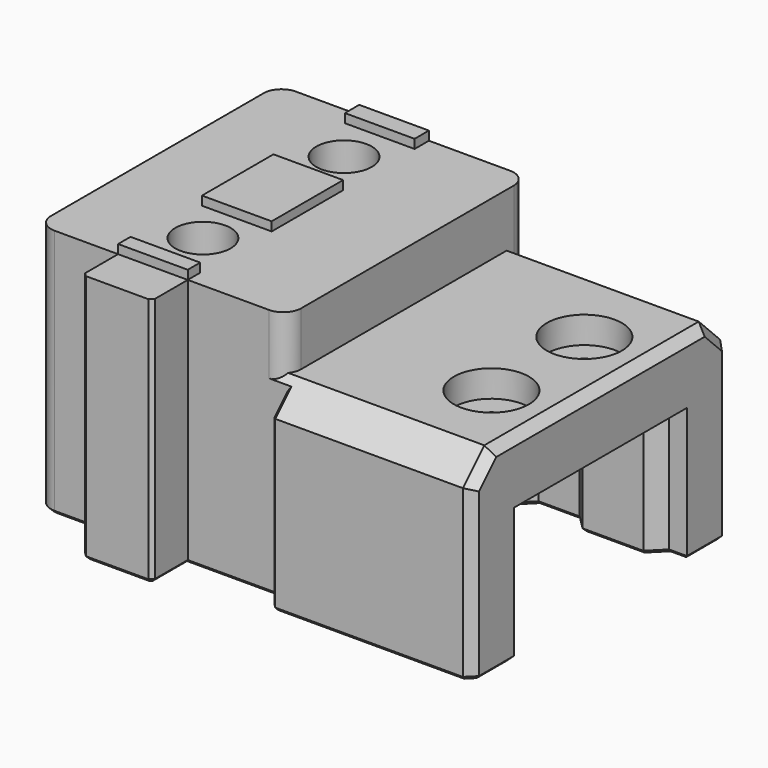
from build123d import *

# Parameters (mm, degrees)
BOX039_W                 = 10
BOX039_H                 = 10
BOX039_DEPTH             = 10
BOX040_W                 = 10
BOX040_H                 = 10
BOX040_DEPTH             = 10
CYLINDER027_R            = 1.4
CYLINDER027_DEPTH        = 46
CYLINDER028_R            = 3
CYLINDER028_DEPTH        = 4
CYLINDER026_R            = 3.1
CYLINDER026_DEPTH        = 32
CYLINDER_R               = 3.1
CYLINDER_DEPTH           = 32
BOX035_W                 = 7.8
BOX035_H                 = 6
BOX035_DEPTH             = 28
CHAMFER003068008_SIZE    = 0.4
BOX031_W                 = 7.8
BOX031_H                 = 11.74
BOX031_DEPTH             = 1
BOX032_W                 = 7.8
BOX032_H                 = 3
BOX032_DEPTH             = 1
BOX030_W                 = 7.8
BOX030_H                 = 3
BOX030_DEPTH             = 1
BOX033_W                 = 60
BOX033_H                 = 10
BOX033_DEPTH             = 30
BOX_W                    = 28
BOX_H                    = 36
BOX_DEPTH                = 28
FILLET_R                 = 2
BOX038_W                 = 4
BOX038_H                 = 14.5
BOX038_DEPTH             = 15
CHAMFER003068009_SIZE    = 3.1
BOX034_W                 = 10
BOX034_H                 = 10
BOX034_DEPTH             = 28
CYLINDER024_R            = 1.65
CYLINDER024_DEPTH        = 10
CYLINDER025_R            = 1.65
CYLINDER025_DEPTH        = 10
CYLINDER023_R            = 4.2
CYLINDER023_DEPTH        = 3
CYLINDER022_R            = 4.2
CYLINDER022_DEPTH        = 3
BOX027_W                 = 13
BOX027_H                 = 10
BOX027_DEPTH             = 19
BOX021_W                 = 10
BOX021_H                 = 3
BOX021_DEPTH             = 15
BOX022_W                 = 4
BOX022_H                 = 3
BOX022_DEPTH             = 15
BOX026_W                 = 4
BOX026_H                 = 3
BOX026_DEPTH             = 15
CHAMFER003060_SIZE       = 1.6
BOX015_W                 = 22.2
BOX015_H                 = 24.2
BOX015_DEPTH             = 18
CHAMFER003042_SIZE       = 1
BOX018_W                 = 22.5
BOX018_H                 = 36
BOX018_DEPTH             = 22
CHAMFER_SIZE             = 3
CHAMFER003061_SIZE       = 1
BOX029_W                 = 3
BOX029_H                 = 36
BOX029_DEPTH             = 22
CHAMFER003062_SIZE       = 3
CHAMFER003068012002_SIZE = 0.4


with BuildPart() as cube037:
    # Box039 → Box039 (new body)
    with BuildSketch(Plane(origin=(-20, 6, 28), x_dir=(1, 0, 0), z_dir=(0, 0, 1))):
        with Locations((5, 5)):
            Rectangle(BOX039_W, BOX039_H)
    extrude(amount=BOX039_DEPTH)


with BuildPart() as fusion013005011029006008001011:
    # Box040 → Box040 (new body)
    with BuildSketch(Plane(origin=(-20, -14, 28), x_dir=(1, 0, 0), z_dir=(0, 0, 1))):
        with Locations((5, 5)):
            Rectangle(BOX040_W, BOX040_H)
    extrude(amount=BOX040_DEPTH)

    # Fusion013005011029006008001011: union Cube037
    add(cube037.part)


with BuildPart() as cylinder027:
    # Cylinder027 → Cylinder027 (new body)
    with BuildSketch(Plane(origin=(-25, 0, 18.5), x_dir=(0, 0, -1), z_dir=(1, 0, 0))):
        Circle(CYLINDER027_R)
    extrude(amount=CYLINDER027_DEPTH)


with BuildPart() as fusion013005011029006008001010:
    # Cylinder028 → Cylinder028 (new body)
    with BuildSketch(Plane(origin=(-29, 0, 18.5), x_dir=(0, 0, -1), z_dir=(1, 0, 0))):
        Circle(CYLINDER028_R)
    extrude(amount=CYLINDER028_DEPTH)

    # Fusion013005011029006008001010: union Cylinder027
    add(cylinder027.part)


with BuildPart() as cylinder026:
    # Cylinder026 → Cylinder026 (new body)
    with BuildSketch(Plane(origin=(-15, -8.74, 0), x_dir=(1, 0, 0), z_dir=(0, 0, 1))):
        Circle(CYLINDER026_R)
    extrude(amount=CYLINDER026_DEPTH)


with BuildPart() as fusion013005011029006006:
    # Cylinder → Cylinder (new body)
    with BuildSketch(Plane(origin=(-15, 11, 0), x_dir=(1, 0, 0), z_dir=(0, 0, 1))):
        Circle(CYLINDER_R)
    extrude(amount=CYLINDER_DEPTH)

    # Fusion013005011029006006: union Cylinder026
    add(cylinder026.part)


with BuildPart() as chamfer003068008:
    # Box035 → Box035 (new body)
    with BuildSketch(Plane(origin=(-18.9, -20.74, 0), x_dir=(1, 0, 0), z_dir=(0, 0, 1))):
        with Locations((3.9, 3)):
            Rectangle(BOX035_W, BOX035_H)
    extrude(amount=BOX035_DEPTH)

    # Chamfer003068008
    chamfer003068008_edges = [chamfer003068008.edges().sort_by_distance(p)[0] for p in [
        (-18.9, -20.74, 14),
        (-11.1, -20.74, 14),
    ]]
    chamfer(chamfer003068008_edges, length=CHAMFER003068008_SIZE)


with BuildPart() as cube029:
    # Box031 → Box031 (new body)
    with BuildSketch(Plane(origin=(-18.9, -4.74, 25), x_dir=(1, 0, 0), z_dir=(0, 0, 1))):
        with Locations((3.9, 5.87)):
            Rectangle(BOX031_W, BOX031_H)
    extrude(amount=BOX031_DEPTH)


with BuildPart() as cube030:
    # Box032 → Box032 (new body)
    with BuildSketch(Plane(origin=(-18.9, 15, 25), x_dir=(1, 0, 0), z_dir=(0, 0, 1))):
        with Locations((3.9, 1.5)):
            Rectangle(BOX032_W, BOX032_H)
    extrude(amount=BOX032_DEPTH)


with BuildPart() as fusion013005011029006004:
    # Box030 → Box030 (new body)
    with BuildSketch(Plane(origin=(-18.9, -15.74, 25), x_dir=(1, 0, 0), z_dir=(0, 0, 1))):
        with Locations((3.9, 1.5)):
            Rectangle(BOX030_W, BOX030_H)
    extrude(amount=BOX030_DEPTH)

    # Fusion013005011029006004: union Cube029, Cube030
    add(cube029.part)
    add(cube030.part)


with BuildPart() as fusion013005011029006004_1:
    # Fusion013005011029006004 placement: moved
    add(fusion013005011029006004.part.moved(Location((0, 0, 3))))


with BuildPart() as cube031:
    # Box033 → Box033 (new body)
    with BuildSketch(Plane(origin=(-31.48, -25.74, 0), x_dir=(1, 0, 0), z_dir=(0, 0, 1))):
        with Locations((30, 5)):
            Rectangle(BOX033_W, BOX033_H)
    extrude(amount=BOX033_DEPTH)


with BuildPart() as fusion013005011029006008001007:
    # Box → Box (new body)
    with BuildSketch(Plane(origin=(-28, -18, 0), x_dir=(1, 0, 0), z_dir=(0, 0, 1))):
        with Locations((14, 18)):
            Rectangle(BOX_W, BOX_H)
    extrude(amount=BOX_DEPTH)

    # Cut001001036007: cut Cube031
    add(cube031.part, mode=Mode.SUBTRACT)

    # Fillet
    fillet_edges = [fusion013005011029006008001007.edges().sort_by_distance(p)[0] for p in [
        (-28, 18, 14),
        (-28, -15.74, 14),
        (0, 18, 14),
        (0, -15.74, 14),
    ]]
    fillet(fillet_edges, radius=FILLET_R)

    # Fusion013005011029006008001007: union Chamfer003068008, Fusion013005011029006004
    add(chamfer003068008.part)
    add(fusion013005011029006004_1.part)


with BuildPart() as chamfer003068009:
    # Box038 → Box038 (new body)
    with BuildSketch(Plane(origin=(1.8, -7.25, 0), x_dir=(1, 0, 0), z_dir=(0, 0, 1))):
        with Locations((2, 7.25)):
            Rectangle(BOX038_W, BOX038_H)
    extrude(amount=BOX038_DEPTH)

    # Chamfer003068009
    chamfer003068009_edges = [chamfer003068009.edges().sort_by_distance(p)[0] for p in [
        (1.8, -7.25, 7.5),
        (1.8, 7.25, 7.5),
    ]]
    chamfer(chamfer003068009_edges, length=CHAMFER003068009_SIZE)


with BuildPart() as cube032:
    # Box034 → Box034 (new body)
    with BuildSketch(Plane(origin=(-9.9, -25.74, 0), x_dir=(1, 0, 0), z_dir=(0, 0, 1))):
        with Locations((5, 5)):
            Rectangle(BOX034_W, BOX034_H)
    extrude(amount=BOX034_DEPTH)


with BuildPart() as cylinder024:
    # Cylinder024 → Cylinder024 (new body)
    with BuildSketch(Plane(origin=(15, 6.5, 12), x_dir=(1, 0, 0), z_dir=(0, 0, 1))):
        Circle(CYLINDER024_R)
    extrude(amount=CYLINDER024_DEPTH)


with BuildPart() as fusion013005011016:
    # Cylinder025 → Cylinder025 (new body)
    with BuildSketch(Plane(origin=(15, -6.5, 12), x_dir=(1, 0, 0), z_dir=(0, 0, 1))):
        Circle(CYLINDER025_R)
    extrude(amount=CYLINDER025_DEPTH)

    # Fusion013005011016: union Cylinder024
    add(cylinder024.part)


with BuildPart() as fusion013005011016_1:
    # Fusion013005011016 placement: moved
    add(fusion013005011016.part.moved(Location((0.5, 0, 0))))


with BuildPart() as cylinder023:
    # Cylinder023 → Cylinder023 (new body)
    with BuildSketch(Plane(origin=(15.5, -6.5, 19), x_dir=(1, 0, 0), z_dir=(0, 0, 1))):
        Circle(CYLINDER023_R)
    extrude(amount=CYLINDER023_DEPTH)


with BuildPart() as fusion013005011027:
    # Cylinder022 → Cylinder022 (new body)
    with BuildSketch(Plane(origin=(15.5, 6.5, 19), x_dir=(1, 0, 0), z_dir=(0, 0, 1))):
        Circle(CYLINDER022_R)
    extrude(amount=CYLINDER022_DEPTH)

    # Fusion013005011026: union Cylinder023
    add(cylinder023.part)

    # Fusion013005011027: union Fusion013005011016
    add(fusion013005011016_1.part)


with BuildPart() as cube025:
    # Box027 → Box027 (new body)
    with BuildSketch(Plane(origin=(6, -11, 0), x_dir=(1, 0, 0), z_dir=(0, 0, 1))):
        with Locations((6.5, 5)):
            Rectangle(BOX027_W, BOX027_H)
    extrude(amount=BOX027_DEPTH)


with BuildPart() as cube021:
    # Box021 → Box021 (new body)
    with BuildSketch(Plane(origin=(10, 10.5, 0), x_dir=(1, 0, 0), z_dir=(0, 0, 1))):
        with Locations((5, 1.5)):
            Rectangle(BOX021_W, BOX021_H)
    extrude(amount=BOX021_DEPTH)


with BuildPart() as cube022:
    # Box022 → Box022 (new body)
    with BuildSketch(Plane(origin=(7, -13.5, 0), x_dir=(1, 0, 0), z_dir=(0, 0, 1))):
        with Locations((2, 1.5)):
            Rectangle(BOX022_W, BOX022_H)
    extrude(amount=BOX022_DEPTH)


with BuildPart() as cut001001032:
    # Box026 → Box026 (new body)
    with BuildSketch(Plane(origin=(16, -13.5, 0), x_dir=(1, 0, 0), z_dir=(0, 0, 1))):
        with Locations((2, 1.5)):
            Rectangle(BOX026_W, BOX026_H)
    extrude(amount=BOX026_DEPTH)

    # Fusion013005011025: union Cube021, Cube022
    add(cube021.part)
    add(cube022.part)

    # Chamfer003060
    chamfer003060_edges = [cut001001032.edges().sort_by_distance(p)[0] for p in [
        (16, -10.5, 7.5),
        (20, -10.5, 7.5),
        (10, 10.5, 7.5),
        (20, 10.5, 7.5),
        (7, -10.5, 7.5),
        (11, -10.5, 7.5),
    ]]
    chamfer(chamfer003060_edges, length=CHAMFER003060_SIZE)

    # Cut001001032: cut Cube025
    add(cube025.part, mode=Mode.SUBTRACT)


with BuildPart() as cut001001032_1:
    # Cut001001032 placement: moved
    add(cut001001032.part.moved(Location((0.5, 0, 0))))


with BuildPart() as chamfer003042:
    # Box015 → Box015 (new body)
    with BuildSketch(Plane(origin=(4.4, -12.1, 0), x_dir=(1, 0, 0), z_dir=(0, 0, 1))):
        with Locations((11.1, 12.1)):
            Rectangle(BOX015_W, BOX015_H)
    extrude(amount=BOX015_DEPTH)

    # Chamfer003042
    chamfer003042_edges = [chamfer003042.edges().sort_by_distance(p)[0] for p in [
        (4.4, -12.1, 9),
        (4.4, 12.1, 9),
    ]]
    chamfer(chamfer003042_edges, length=CHAMFER003042_SIZE)


with BuildPart() as chamfer003042_1:
    # Chamfer003042 placement: moved
    add(chamfer003042.part.moved(Location((0.5, 0, -3))))


with BuildPart() as cut001001033:
    # Box018 → Box018 (new body)
    with BuildSketch(Plane(origin=(0, -18, 0), x_dir=(1, 0, 0), z_dir=(0, 0, 1))):
        with Locations((11.25, 18)):
            Rectangle(BOX018_W, BOX018_H)
    extrude(amount=BOX018_DEPTH)

    # Cut: cut Chamfer003042
    add(chamfer003042_1.part, mode=Mode.SUBTRACT)

    # Fusion: union Cut001001032
    add(cut001001032_1.part)

    # Chamfer
    chamfer_edges = [cut001001033.edges().sort_by_distance(p)[0] for p in [
        (11.25, -18, 22),
        (11.25, 18, 22),
    ]]
    chamfer(chamfer_edges, length=CHAMFER_SIZE)

    # Chamfer003061
    chamfer003061_edges = [cut001001033.edges().sort_by_distance(p)[0] for p in [
        (22.5, -18, 9.5),
        (22.5, -16.5, 20.5),
        (22.5, 0, 22),
        (22.5, 18, 9.5),
        (22.5, 16.5, 20.5),
    ]]
    chamfer(chamfer003061_edges, length=CHAMFER003061_SIZE)

    # Cut001001033: cut Fusion013005011027
    add(fusion013005011027.part, mode=Mode.SUBTRACT)


with BuildPart() as cut001001036010002002002:
    # Box029 → Box029 (new body)
    with BuildSketch(Plane(origin=(-2, -18, 0), x_dir=(1, 0, 0), z_dir=(0, 0, 1))):
        with Locations((1.5, 18)):
            Rectangle(BOX029_W, BOX029_H)
    extrude(amount=BOX029_DEPTH)

    # Chamfer003062
    chamfer003062_edges = [cut001001036010002002002.edges().sort_by_distance(p)[0] for p in [
        (-0.5, -18, 22),
        (-0.5, 18, 22),
    ]]
    chamfer(chamfer003062_edges, length=CHAMFER003062_SIZE)

    # Fusion013005011029005: union Cut001001033
    add(cut001001033.part)

    # Cut001001035: cut Cube032
    add(cube032.part, mode=Mode.SUBTRACT)

    # Cut001001036008: cut Chamfer003068009
    add(chamfer003068009.part, mode=Mode.SUBTRACT)

    # Fusion013005011029006008001008: union Fusion013005011029006008001007
    add(fusion013005011029006008001007.part)

    # Cut001001036009: cut Fusion013005011029006006
    add(fusion013005011029006006.part, mode=Mode.SUBTRACT)

    # Cut001001036010002002: cut Fusion013005011029006008001010
    add(fusion013005011029006008001010.part, mode=Mode.SUBTRACT)

    # Chamfer003068012002
    chamfer003068012002_edges = [cut001001036010002002002.edges().sort_by_distance(p)[0] for p in [
        (8.2, 12.1, 0),
        (5.4, 11.6, 0),
        (4.9, 9.175, 0),
        (3.35, 5.7, 0),
        (1.8, 0, 0),
        (3.35, -5.7, 0),
        (4.9, -9.175, 0),
        (5.4, -11.6, 0),
        (6.7, -12.1, 0),
        (11.3, 11.3, 0),
        (8.05, -11.55, 0),
        (15.5, 10.5, 0),
        (22.5, -14.55, 0),
        (22.5, 14.55, 0),
        (21.5, 12.1, 0),
        (21.5, -12.1, 0),
        (22, -17.5, 0),
        (22, 17.5, 0),
        (19.7, 11.3, 0),
        (19.95, -11.55, 0),
        (18.5, -11, 0),
        (14, -12.1, 0),
        (17.05, -11.55, 0),
        (10.95, -11.55, 0),
        (9.5, -11, 0),
        (10.8, -18, 0),
        (0.1, -16.87, 0),
        (-5.5, -15.74, 0),
        (-11.1, -18.04, 0),
        (-11.3, -20.54, 0),
        (-15, -20.74, 0),
        (-18.7, -20.54, 0),
        (-18.9, -18.04, 0),
        (-22.45, -15.74, 0),
        (-27.414214, -15.154214, 0),
        (-28, 1.13, 0),
        (-27.414214, 17.414214, 0),
        (-2.25, 18, 0),
        (-18.1, -8.74, 0),
        (-18.1, 11, 0),
        (0.1, -18, 9.5),
        (0.1, -16.87, 20.13),
        (-28, 0, 21.5),
    ]]
    chamfer(chamfer003068012002_edges, length=CHAMFER003068012002_SIZE)

    # Cut001001036010002002002: cut Fusion013005011029006008001011
    add(fusion013005011029006008001011.part, mode=Mode.SUBTRACT)


solid = cut001001036010002002002.part
